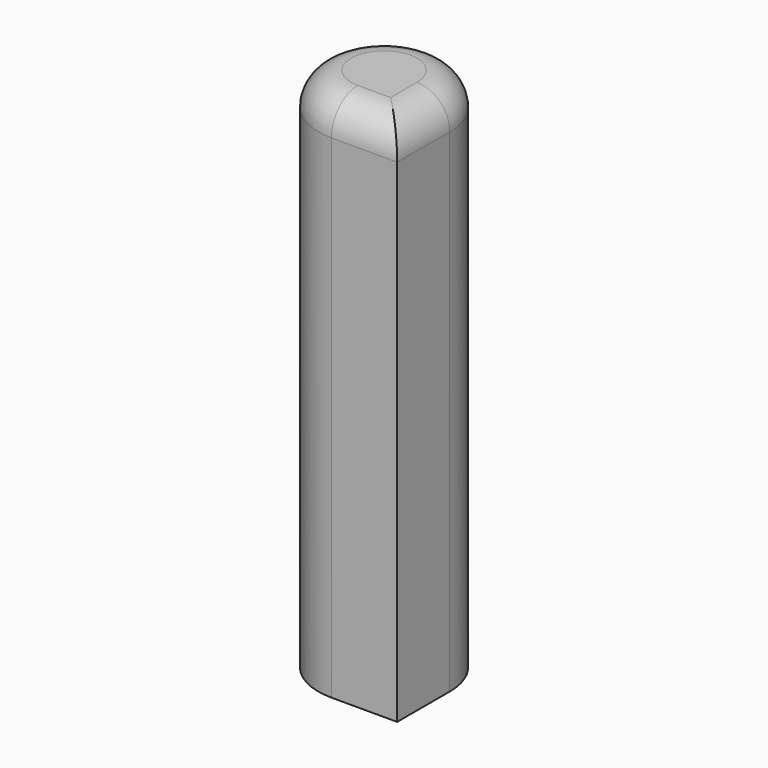
from build123d import *

# Parameters (mm, degrees)
F1_DEPTH = 50.8
F2_R     = 3.175
F3_D     = 6.35
F3_DEPTH = 44.45
F3_TIP   = 1.9077324654


with BuildPart() as f1:
    # F0 (on Top) → F1 (new body)
    with BuildSketch(Plane.XY):
        with BuildLine():
            Line((6.35, -6.35), (6.35, 0))
            ThreePointArc((6.35, 0), (-4.4901280605, 4.4901280605), (0, -6.35))
            Line((0, -6.35), (6.35, -6.35))
        make_face()
    extrude(amount=F1_DEPTH)

    # F2
    f2_edges = [f1.edges().sort_by_distance(p)[0] for p in [
        (3.175, -6.35, 50.8),
        (6.35, -3.175, 50.8),
        (-4.490128, 4.490128, 50.8),
    ]]
    fillet(f2_edges, radius=F2_R)

    # F3
    with Locations(Plane(origin=(0, 0, 0), x_dir=(1, 0, 0), z_dir=(0, 0, -1))):
        with Locations((0, 0)):
            Hole(F3_D / 2, depth=F3_DEPTH)
            with Locations((0, 0, -(F3_DEPTH + F3_TIP / 2))):  # 118° drill point
                Cone(0, F3_D / 2, F3_TIP, mode=Mode.SUBTRACT)


solid = f1.part
